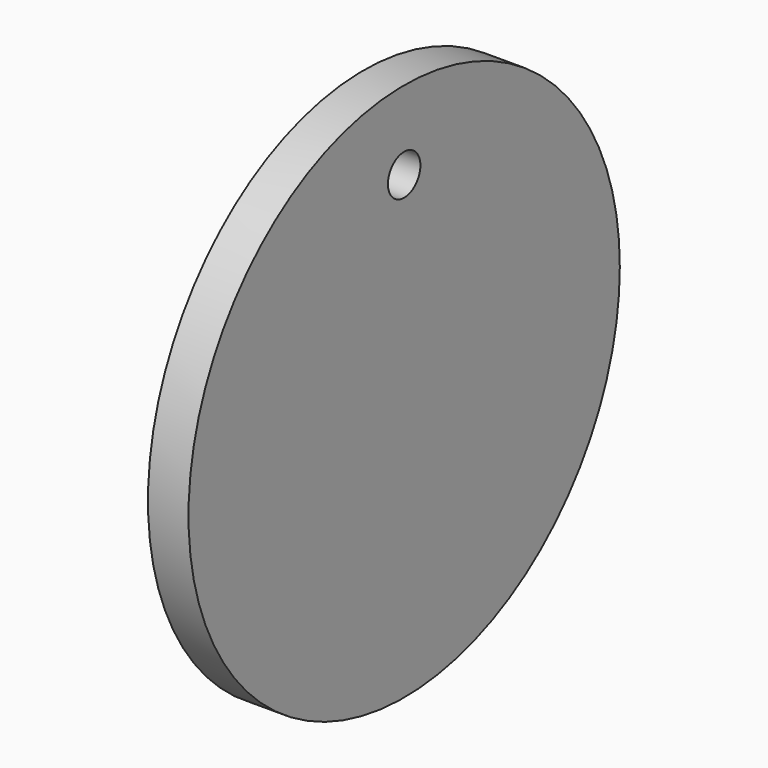
from build123d import *

# Parameters (mm, degrees)
F0_R     = 25.336511
F1_DEPTH = 3.81
F2_T     = -2.54
F4_D     = 3.81
F4_DEPTH = 2.54


with BuildPart() as f1:
    # F0 (on Right) → F1 (new body)
    with BuildSketch(Plane.YZ):
        with Locations((0, -2.190114)):
            Circle(F0_R)
    extrude(amount=-F1_DEPTH)

    # F2
    f2_openings = [f1.faces().sort_by_distance(p)[0] for p in [
        (-3.81, 0, -2.190114),
    ]]
    offset(amount=F2_T, openings=f2_openings)

    # F4
    with Locations(Plane(origin=(-2.54, 0, 0), x_dir=(0, -1, 0), z_dir=(-1, 0, 0))):
        with Locations((0, 15.737751)):
            Hole(F4_D / 2, depth=F4_DEPTH)


solid = f1.part
